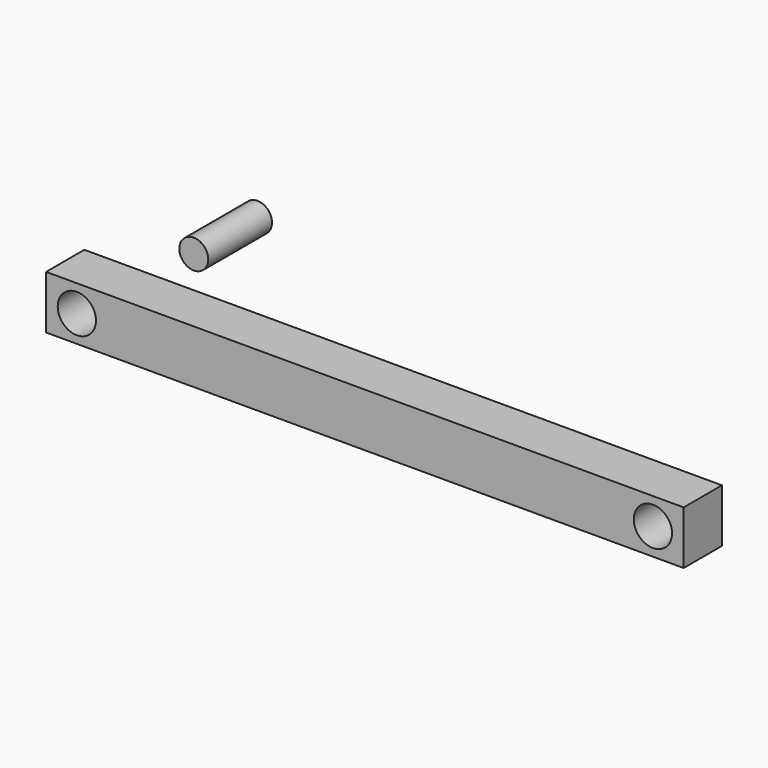
from build123d import *

# Parameters (mm, degrees)
F0_W     = 15
F0_H     = 16.748667
F1_DEPTH = 100
F3_D     = 12
F4_R     = 4.542087
F5_DEPTH = 25


with BuildPart() as f1:
    # F0 (on Right) → F1 (new body, symmetric)
    with BuildSketch(Plane.YZ):
        with Locations((0.335367, 1.416986)):
            Rectangle(F0_W, F0_H)
    extrude(amount=F1_DEPTH, both=True)

    # F3 (through all)
    with Locations(Plane.XZ.offset(7.164633)):
        with Locations((90.351857, 1.416985), (-90.351857, 1.416985)):
            Hole(F3_D / 2)


with BuildPart() as f5:
    # F4 (on Front) → F5 (new body)
    with BuildSketch(Plane.XZ):
        with Locations((-39.399955, 41.663915)):
            Circle(F4_R)
    extrude(amount=F5_DEPTH)


solid = Compound([f1.part, f5.part])
